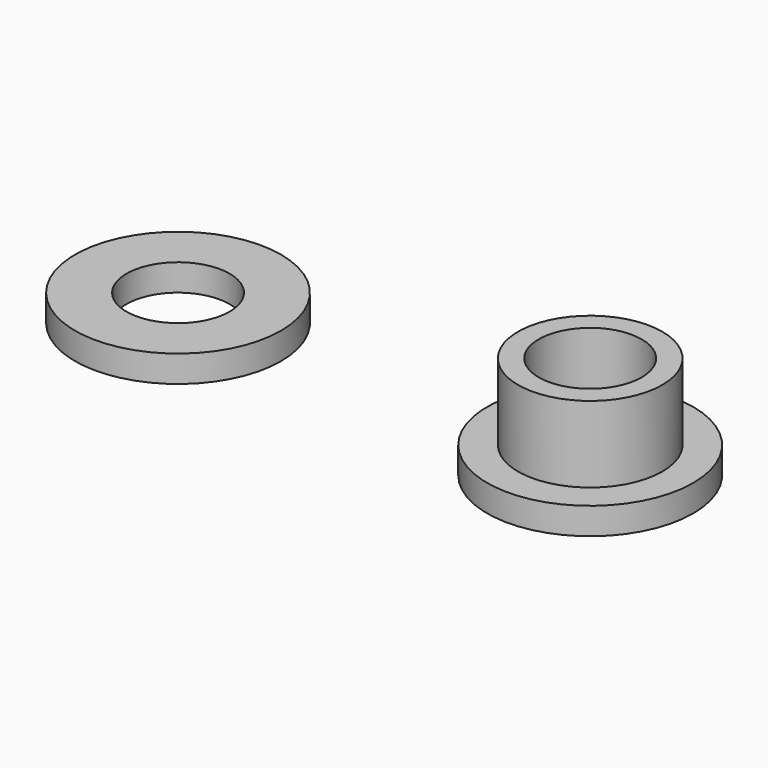
from build123d import *

# Parameters (mm, degrees)
F0_R     = 3.5
F0_R_2   = 2.5
F1_DEPTH = 5
F2_R     = 5
F2_R_2   = 2.5
F3_DEPTH = 1.3
F5_R     = 5
F5_R_2   = 2.5
F6_DEPTH = 1.3


with BuildPart() as f1:
    # F0 (on Top) → F1 (new body)
    with BuildSketch(Plane.XY):
        Circle(F0_R)
        Circle(F0_R_2, mode=Mode.SUBTRACT)
    extrude(amount=F1_DEPTH)

    # F2 (on Top) → F3 (join)
    with BuildSketch(Plane.XY):
        Circle(F2_R)
        Circle(F2_R_2, mode=Mode.SUBTRACT)
    extrude(amount=F3_DEPTH)


with BuildPart() as f1_1:
    # F4: moved
    add(f1.part.moved(Location((20, 0, 0))))


with BuildPart() as f6:
    # F5 (on Top) → F6 (new body)
    with BuildSketch(Plane.XY):
        Circle(F5_R)
        Circle(F5_R_2, mode=Mode.SUBTRACT)
    extrude(amount=F6_DEPTH)


solid = Compound([f1_1.part, f6.part])
